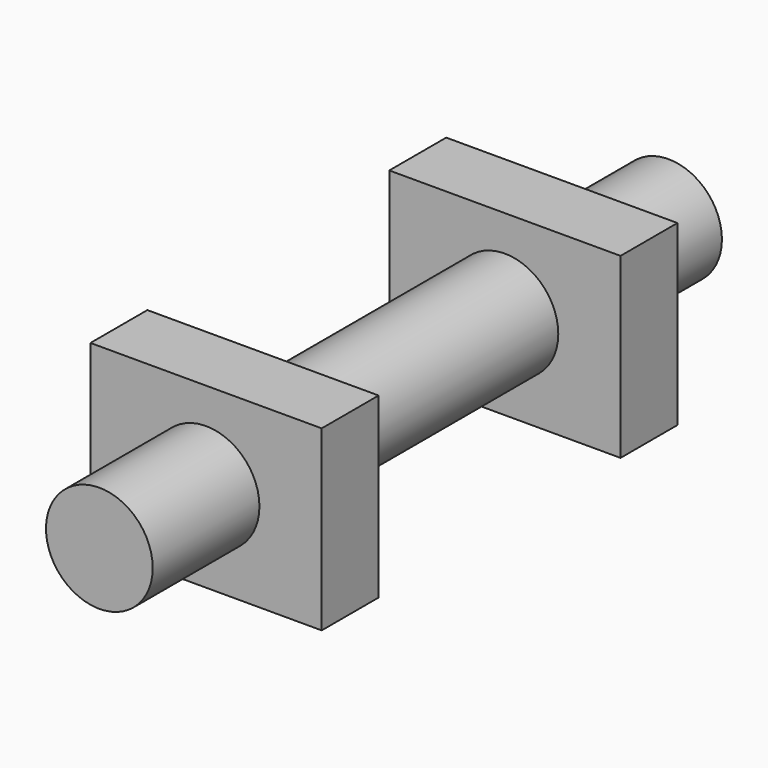
from build123d import *

# Parameters (mm, degrees)
F0_R          = 15
F1_DEPTH      = 100
F2_W          = 65
F2_H          = 20
F3_DEPTH      = 25
F3_DEPTH_BACK = 25


with BuildPart() as f1:
    # F0 (on Front) → F1 (new body, symmetric)
    with BuildSketch(Plane.XZ):
        Circle(F0_R)
    extrude(amount=F1_DEPTH, both=True)


with BuildPart() as f3:
    # F2 (on Top) → F3 (new body, two sides)
    with BuildSketch(Plane.XY) as f3_sk:
        with Locations((0, 52.5)):
            Rectangle(F2_W, F2_H)
        with Locations((0, -52.5)):
            Rectangle(F2_W, F2_H)
    extrude(amount=F3_DEPTH)
    extrude(f3_sk.sketch, amount=-F3_DEPTH_BACK)


solid = Compound([f1.part, f3.part])
